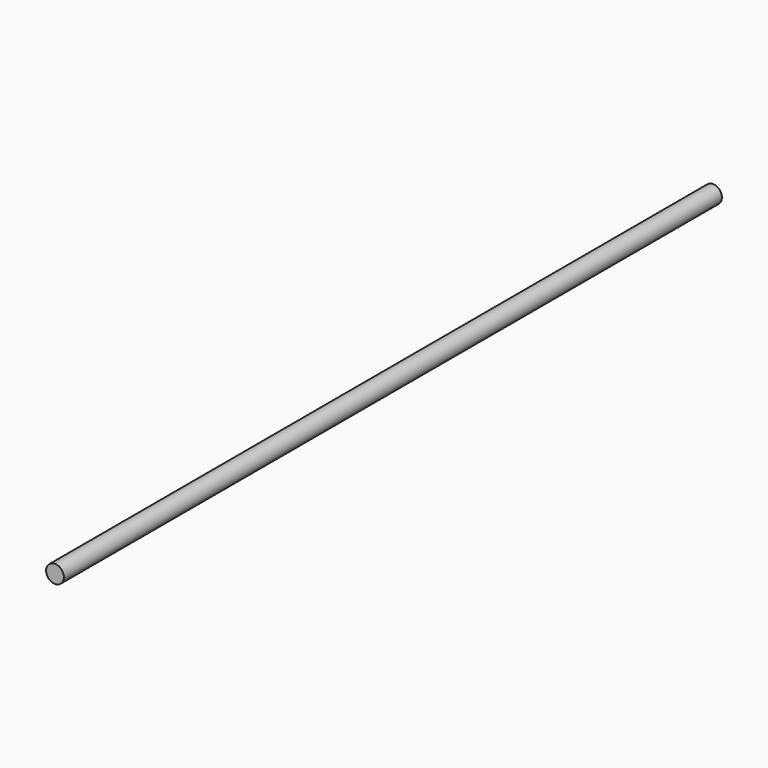
from build123d import *

# Parameters (mm, degrees)
SKETCH_R  = 4
PAD_DEPTH = 370


with BuildPart() as part:
    # Sketch → Pad (new body)
    with BuildSketch(Plane.XZ):
        Circle(SKETCH_R)
    extrude(amount=PAD_DEPTH)


solid = part.part
